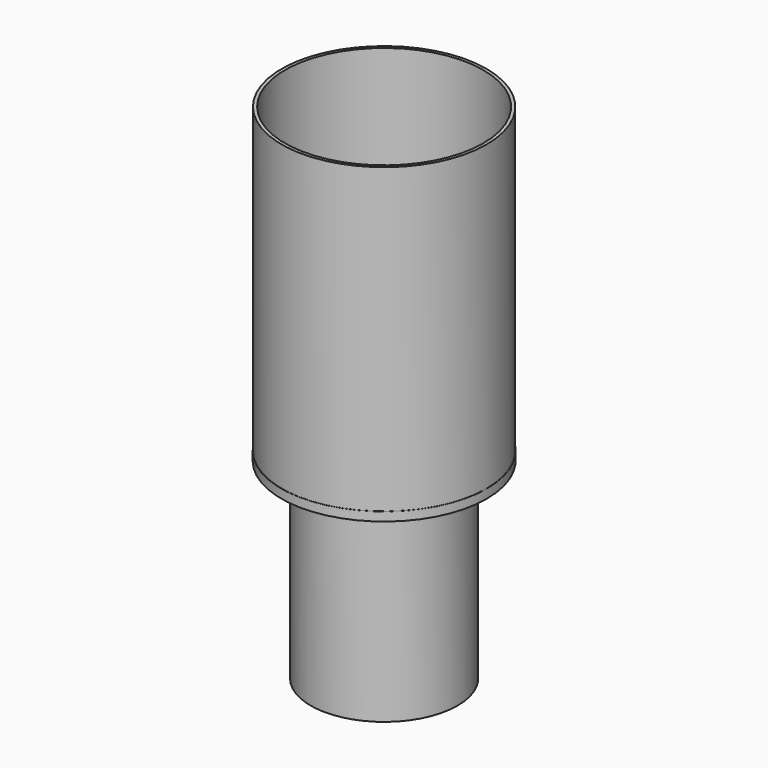
from build123d import *

# Parameters (mm, degrees)
F0_R        = 16.5
F0_R_2      = 15.5
F1_DEPTH    = 44
F2_R        = 23
F2_R_2      = 22.27
F3_DEPTH    = 25
F3_FACE_R   = 23
F3_FACE_R_2 = 22.27
F4_DEPTH    = 44
F5_R        = 23.049095
F5_R_2      = 16.5
F6_DEPTH    = 1


with BuildPart() as f1:
    # F0 (on Top) → F1 (new body)
    with BuildSketch(Plane.XY):
        Circle(F0_R)
        Circle(F0_R_2, mode=Mode.SUBTRACT)
    extrude(amount=F1_DEPTH)


with BuildPart() as f3:
    # F2 (on face) → F3 (new body)
    with BuildSketch(Plane.XY.offset(44)):
        Circle(F2_R)
        Circle(F2_R_2, mode=Mode.SUBTRACT)
    extrude(amount=F3_DEPTH)

    # F3_face (on face) → F4 (join)
    with BuildSketch(Plane.XY.offset(69)):
        Circle(F3_FACE_R)
        Circle(F3_FACE_R_2, mode=Mode.SUBTRACT)
    extrude(amount=F4_DEPTH)


with BuildPart() as f6:
    # F5 (on face) → F6 (new body, symmetric)
    with BuildSketch(Plane.XY.offset(44)):
        Circle(F5_R)
        Circle(F5_R_2, mode=Mode.SUBTRACT)
    extrude(amount=F6_DEPTH, both=True)


solid = Compound([f1.part, f3.part, f6.part])
